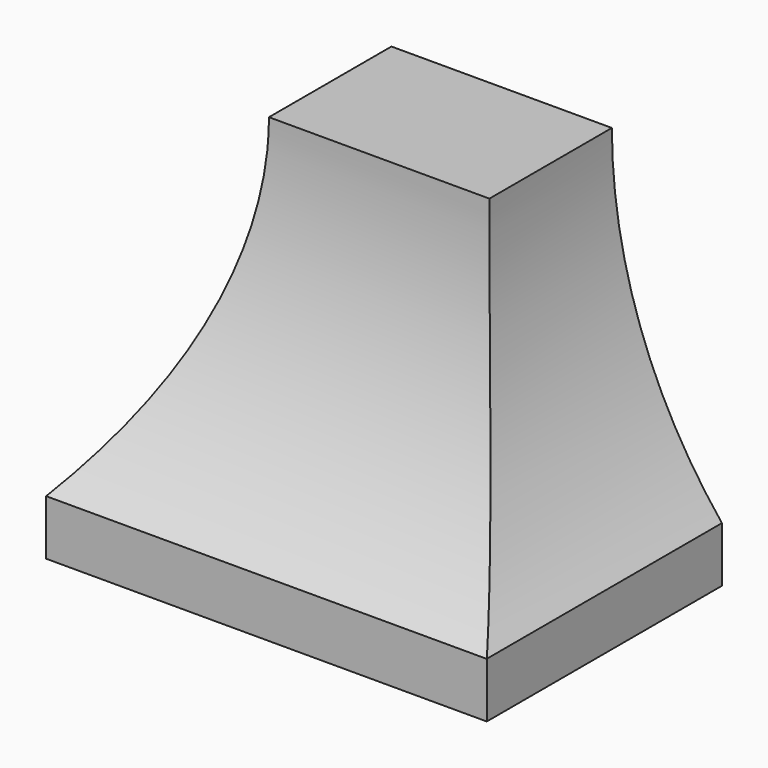
from build123d import *

# Parameters (mm, degrees)
F0_W     = 914.4
F0_H     = 762
F1_DEPTH = 609.6
F3_W     = 914.4
F3_H     = 762
F4_DEPTH = 609.6
F6_DEPTH = 2057.04989884
F8_DEPTH = 609.601


with BuildPart() as f1:
    # F0 (on Front) → F1 (new body)
    with BuildSketch(Plane.XZ):
        with Locations((-0.35110116, 123.4715153943)):
            Rectangle(F0_W, F0_H)
    extrude(amount=F1_DEPTH)


with BuildPart() as f1_1:
    # F2: moved
    add(f1.part.moved(Location((1143, 0, 0))))

    # F5 (on face) → F6 (cut, through all)
    with BuildSketch(Plane.YZ.offset(1599.84889884)):
        with BuildLine():
            Line((-609.6, 504.4715153943), (-609.6, -143.2284846057))
            ThreePointArc((-609.6, -143.2284846057), (-393.902496237, 149.2118568345), (-317.5, 504.4715153943))
            Line((-317.5, 504.4715153943), (-609.6, 504.4715153943))
        make_face()
    extrude(amount=-F6_DEPTH, mode=Mode.SUBTRACT)


with BuildPart() as f4:
    # F3 (on Front) → F4 (new body)
    with BuildSketch(Plane.XZ):
        Rectangle(F3_W, F3_H)
    extrude(amount=F4_DEPTH)

    # F7 (on face) → F8 (cut, through all)
    with BuildSketch(Plane.XZ.offset(609.6)):
        with BuildLine():
            Line((-457.2, 381), (-457.2, -266.7))
            ThreePointArc((-457.2, -266.7), (-287.4268495342, 37.5712410121), (-228.6, 381))
            Line((-228.6, 381), (-457.2, 381))
        make_face()
        with BuildLine():
            Line((457.2, 381), (228.6, 381))
            ThreePointArc((228.6, 381), (287.4268495342, 37.5712410121), (457.2, -266.7))
            Line((457.2, -266.7), (457.2, 381))
        make_face()
    extrude(amount=-F8_DEPTH, mode=Mode.SUBTRACT)


with BuildPart() as f1_2:
    # F9: moved
    add(f1_1.part.moved(Location((-1143, 0, -123.2408))))

    # F10: intersect F4
    add(f4.part, mode=Mode.INTERSECT)


solid = f1_2.part
